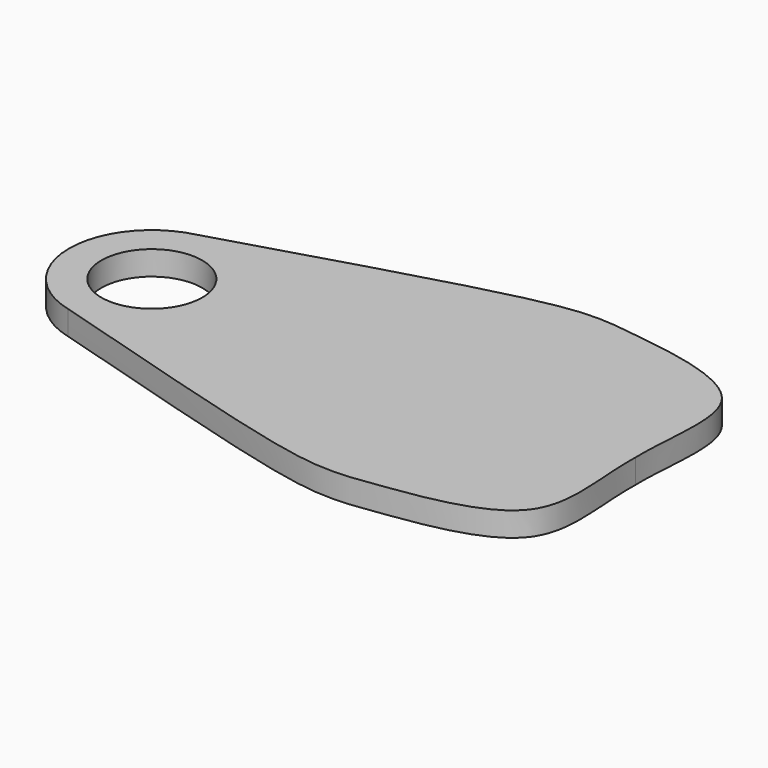
from build123d import *

# Parameters (mm, degrees)
F0_R     = 3.1257411785
F1_DEPTH = 1.5


with BuildPart() as f1:
    # F0 (on Top) → F1 (new body)
    with BuildSketch(Plane.XY):
        with BuildLine():
            add(Edge.make_bspline(
                [(-15.7441535059, 4.9825205612), (3.3106269912, 10.7057899808), (3.4704280619, 10.5218150047), (16.9855939894, 8.7794726641), (15.3568830055, 2.8245466134), (15.430860795, 0)],
                knots=[0, 0, 0, 0, 0.4687129503, 0.7362957408, 1, 1, 1, 1], degree=3))
            ThreePointArc((-15.7441535059, 4.9825205612), (-19.6666858551, 0), (-15.7441535059, -4.9825205612))
            add(Edge.make_bspline(
                [(-15.7441535059, -4.9825205612), (3.3106269912, -10.7057899808), (3.4704280619, -10.5218150047), (16.9855939894, -8.7794726641), (15.3568830055, -2.8245466134), (15.430860795, 0)],
                knots=[0, 0, 0, 0, 0.4687129503, 0.7362957408, 1, 1, 1, 1], degree=3))
        make_face()
        with Locations((-14.5409446766, 0)):
            Circle(F0_R, mode=Mode.SUBTRACT)
    extrude(amount=F1_DEPTH)


solid = f1.part
